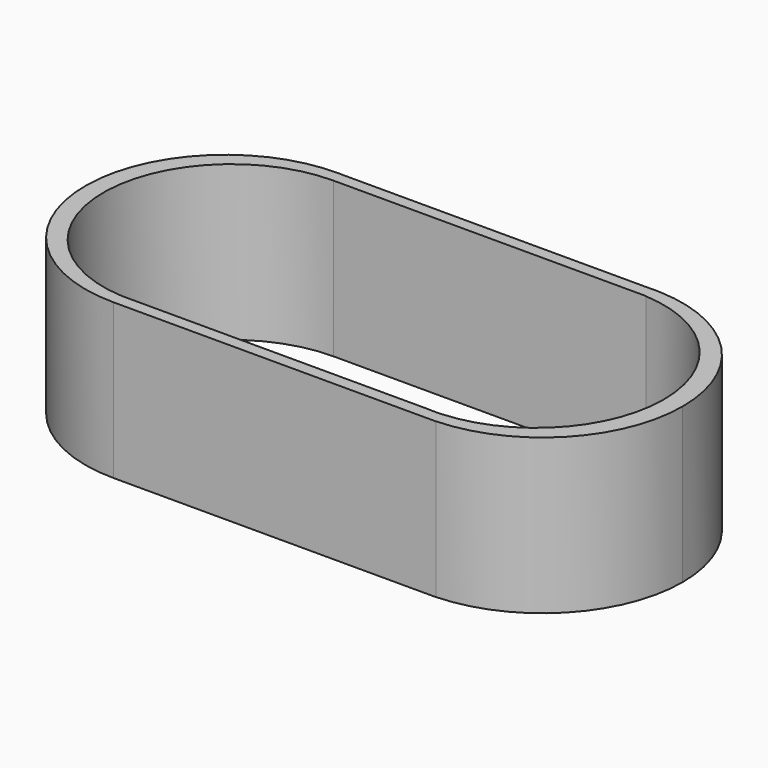
from build123d import *

# Parameters (mm, degrees)
F2_DEPTH = 12.7
F3_DEPTH = 25.4


with BuildPart() as f2:
    # F1 (on Top) → F2 (new body)
    with BuildSketch(Plane.XY):
        with BuildLine():
            Line((-31.2087200582, 11.497649614), (-30.9762262846, 11.497649614))
            ThreePointArc((-30.9762262846, 11.497649614), (-42.7081324467, 0.1162528269), (-31.2087200582, -11.5))
            Line((-31.2087200582, -11.5), (-31.2087200582, 11.497649614))
        make_face()
        with BuildLine():
            Line((-30.9762262846, 11.4906835356), (-30.9762262846, 11.497649614))
            Line((-30.9762262846, 11.497649614), (-31.2087200582, 11.497649614))
            Line((-31.2087200582, 11.497649614), (-31.2087200582, -11.5))
            ThreePointArc((-31.2087200582, -11.5), (-31.0924672313, -11.4994123885), (-30.9762262846, -11.497649614))
            Line((-30.9762262846, -11.497649614), (-30.9762262846, 11.4906835356))
        make_face()
        with BuildLine():
            ThreePointArc((-30.7459113671, 11.4906835356), (-30.8610513784, 11.4947434286), (-30.9762262846, 11.497649614))
            Line((-30.9762262846, 11.497649614), (-30.9762262846, 11.4906835356))
            Line((-30.9762262846, 11.4906835356), (-30.7459113671, 11.4906835356))
        make_face()
        with BuildLine():
            ThreePointArc((-30.9762262846, -11.497649614), (-31.0924672313, -11.4994123885), (-31.2087200582, -11.5))
            Line((-31.2087200582, -11.5), (-30.9762262846, -11.5))
            Line((-30.9762262846, -11.5), (-30.9762262846, -11.497649614))
        make_face()
        with BuildLine():
            Line((-5.6441785285, 11.4906835356), (-30.7459113671, 11.4906835356))
            ThreePointArc((-30.7459113671, 11.4906835356), (-22.9149784434, 7.9664201512), (-19.7087200582, 0))
            ThreePointArc((-19.7087200582, 0), (-22.9952044164, -8.0491093173), (-30.9762262846, -11.497649614))
            Line((-30.9762262846, -11.497649614), (-30.9762262846, -11.5))
            Line((-30.9762262846, -11.5), (-5.1813698374, -11.5))
            ThreePointArc((-5.1813698374, -11.5), (-16.6790404854, -0.2314512265), (-5.6441785285, 11.4906835356))
        make_face()
        with BuildLine():
            ThreePointArc((-19.7087200582, 0), (-22.9149784434, 7.9664201512), (-30.7459113671, 11.4906835356))
            Line((-30.7459113671, 11.4906835356), (-30.9762262846, 11.4906835356))
            Line((-30.9762262846, 11.4906835356), (-30.9762262846, -11.497649614))
            ThreePointArc((-30.9762262846, -11.497649614), (-22.9952044164, -8.0491093173), (-19.7087200582, 0))
        make_face()
        with BuildLine():
            Line((-4.7185611463, 11.4906835356), (-5.6441785285, 11.4906835356))
            ThreePointArc((-5.6441785285, 11.4906835356), (-16.6790404854, -0.2314512265), (-5.1813698374, -11.5))
            ThreePointArc((-5.1813698374, -11.5), (-4.9499186108, -11.497670648), (-4.7185611463, -11.4906835356))
            Line((-4.7185611463, -11.4906835356), (-4.7185611463, 11.4906835356))
        make_face()
        with BuildLine():
            ThreePointArc((-4.7185611463, 11.4906835356), (-5.1813698374, 11.5), (-5.6441785285, 11.4906835356))
            Line((-5.6441785285, 11.4906835356), (-4.7185611463, 11.4906835356))
        make_face()
        with BuildLine():
            ThreePointArc((-4.7185611463, -11.4906835356), (-4.9499186108, -11.497670648), (-5.1813698374, -11.5))
            Line((-5.1813698374, -11.5), (-4.7185611463, -11.5))
            Line((-4.7185611463, -11.5), (-4.7185611463, -11.4906835356))
        make_face()
        with BuildLine():
            ThreePointArc((6.3186301626, 0), (3.1123717775, 7.9664201512), (-4.7185611463, 11.4906835356))
            Line((-4.7185611463, 11.4906835356), (-4.7185611463, -11.4906835356))
            ThreePointArc((-4.7185611463, -11.4906835356), (3.1123717775, -7.9664201512), (6.3186301626, 0))
        make_face()
    extrude(amount=F2_DEPTH)

    # F0 (on Top) → F3 (cut)
    with BuildSketch(Plane.XY):
        with BuildLine():
            ThreePointArc((-30.0854715537, -10.4804), (-23.0787511913, -7.194329646), (-20.2267326862, 0))
            ThreePointArc((-20.2267326862, 0), (-23.3021114837, 7.4246212025), (-30.7267326862, 10.5))
            Line((-30.7267326862, 10.5), (-30.7267326862, -10.4804))
            Line((-30.7267326862, -10.4804), (-30.0854715537, -10.4804))
        make_face()
        with BuildLine():
            ThreePointArc((-30.7267326862, 10.5), (-23.3021114837, 7.4246212025), (-20.2267326862, 0))
            ThreePointArc((-20.2267326862, 0), (-23.0787511913, -7.194329646), (-30.0854715537, -10.4804))
            Line((-30.0854715537, -10.4804), (-6.3679938186, -10.4804))
            ThreePointArc((-6.3679938186, -10.4804), (-16.2218315423, 0.3207802986), (-5.7267326862, 10.5))
            Line((-5.7267326862, 10.5), (-30.7267326862, 10.5))
        make_face()
        with BuildLine():
            Line((-30.7267326862, -10.4804), (-30.7267326862, 10.5))
            ThreePointArc((-30.7267326862, 10.5), (-41.2218315423, -0.3207802986), (-30.0854715537, -10.4804))
            Line((-30.0854715537, -10.4804), (-30.7267326862, -10.4804))
        make_face()
        with BuildLine():
            Line((-5.0854715537, 10.5), (-5.7267326862, 10.5))
            ThreePointArc((-5.7267326862, 10.5), (-5.4059523875, 10.4950988561), (-5.0854715537, 10.4804))
            Line((-5.0854715537, 10.4804), (-5.0854715537, 10.5))
        make_face()
        with BuildLine():
            ThreePointArc((-5.0854715537, 10.4804), (-5.4059523875, 10.4950988561), (-5.7267326862, 10.5))
            ThreePointArc((-5.7267326862, 10.5), (-16.2218315423, 0.3207802986), (-6.3679938186, -10.4804))
            Line((-6.3679938186, -10.4804), (-5.0854715537, -10.4804))
            Line((-5.0854715537, -10.4804), (-5.0854715537, 10.4804))
        make_face()
        with BuildLine():
            Line((-5.0854715537, -10.4804), (-6.3679938186, -10.4804))
            ThreePointArc((-6.3679938186, -10.4804), (-5.7267326862, -10.5), (-5.0854715537, -10.4804))
        make_face()
        with BuildLine():
            ThreePointArc((4.7732673138, 0), (1.9212488087, 7.194329646), (-5.0854715537, 10.4804))
            Line((-5.0854715537, 10.4804), (-5.0854715537, -10.4804))
            ThreePointArc((-5.0854715537, -10.4804), (1.9212488087, -7.194329646), (4.7732673138, 0))
        make_face()
    extrude(amount=F3_DEPTH, mode=Mode.SUBTRACT)


solid = f2.part
